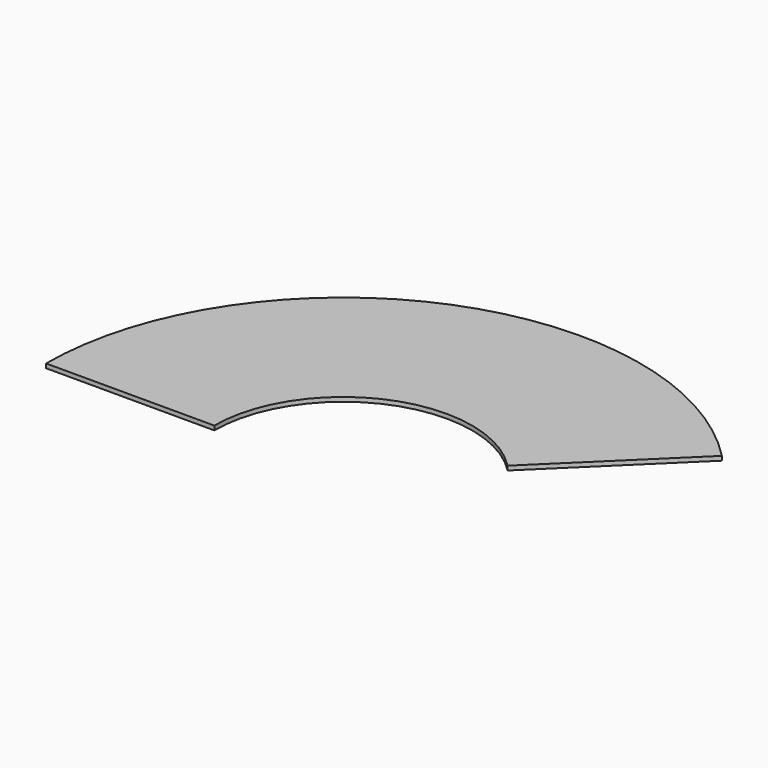
from build123d import *

# Parameters (mm, degrees)
F1_DEPTH = 1.5
F2_W     = 2
F2_H     = 4
F2_R     = 4
F3_DEPTH = 2.5


with BuildPart() as f1:
    # F0 (on Top) → F1 (new body)
    with BuildSketch(Plane.XY):
        with BuildLine():
            Line((32.444928, 31.685156), (74.762845, 73.012102))
            ThreePointArc((74.762845, 73.012102), (-39.417843, 96.780595), (-104.5, 0))
            Line((-104.5, 0), (-45.35, 0))
            ThreePointArc((-45.35, 0), (-17.106212, 42), (32.444928, 31.685156))
        make_face()
    extrude(amount=F1_DEPTH)

    # F2 (on face) → F3 (join)
    with BuildSketch(Plane.XY.offset(1.5)):
        Polygon((-24.734859, 59.074202), (-24.153877, 59.303767), (-24.908327, 61.156129), (-25.46983, 60.93426), align=None)
        Polygon((-24.908327, 61.156129), (-24.153877, 59.303767), (-22.874801, 59.809172), (-21.014742, 60.544143), (-21.749713, 62.404202), (-23.609771, 61.669231), align=None)
        Polygon((-30.247139, 73.024641), (-29.812251, 73.19648), (-30.566701, 75.048842), (-30.98211, 74.8847), align=None)
        Polygon((-30.566701, 75.048842), (-29.812251, 73.19648), (-28.387081, 73.759612), (-26.527022, 74.494583), (-27.261993, 76.354641), (-29.122051, 75.619671), align=None)
        Polygon((-55.841003, 34.054731), (-54.724372, 35.713989), (-56.383629, 36.83062), (-57.50026, 35.171363), align=None)
        Polygon((-68.285433, 42.429465), (-67.168802, 44.088722), (-68.828059, 45.205353), (-69.94469, 43.546096), align=None)
        Polygon((-68.828059, 45.205353), (-67.168802, 44.088722), (-66.052171, 45.747979), (-67.711428, 46.86461), align=None)
        Polygon((-56.383629, 36.83062), (-54.724372, 35.713989), (-53.60774, 37.373246), (-55.266998, 38.489877), align=None)
        Polygon((-56.957634, 32.395474), (-55.841003, 34.054731), (-57.50026, 35.171363), (-58.616891, 33.512105), align=None)
        Polygon((-69.402064, 40.770207), (-68.285433, 42.429465), (-69.94469, 43.546096), (-71.061321, 41.886838), align=None)
        Polygon((22.776784, 77.747336), (20.827569, 78.195176), (20.379729, 76.245961), (22.328944, 75.798121), align=None)
        Polygon((19.417982, 63.128223), (17.468767, 63.576063), (17.020927, 61.626848), (18.970142, 61.179008), align=None)
        with Locations((-76.35, 7)):
            Rectangle(F2_W, F2_H)
        with Locations((46.631219, 58.11902)):
            Circle(F2_R)
    extrude(amount=-F3_DEPTH)


solid = f1.part
